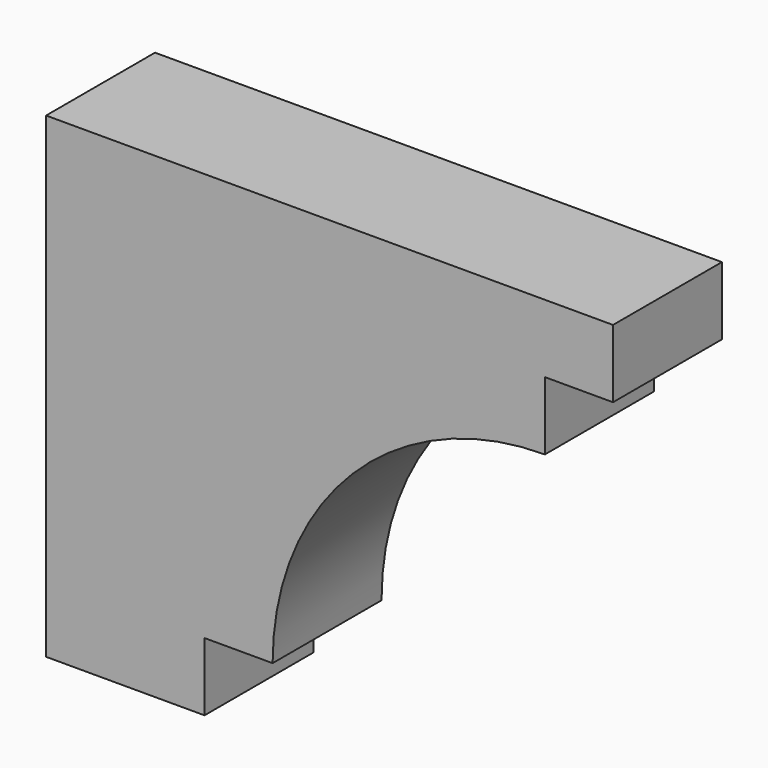
from build123d import *

# Parameters (mm, degrees)
F1_DEPTH = 25.4


with BuildPart() as f1:
    # F0 (on Front) → F1 (new body)
    with BuildSketch(Plane.XZ):
        with BuildLine():
            Line((105.758528, 0), (0, 0))
            Line((0, 0), (0, -88.9))
            Line((0, -88.9), (29.558528, -88.9))
            Line((29.558528, -88.9), (29.558528, -76.2))
            Line((29.558528, -76.2), (42.258528, -76.2))
            ThreePointArc((42.258528, -76.2), (57.137504, -40.278976), (93.058528, -25.4))
            Line((93.058528, -25.4), (93.058528, -12.7))
            Line((93.058528, -12.7), (105.758528, -12.7))
            Line((105.758528, -12.7), (105.758528, 0))
        make_face()
    extrude(amount=F1_DEPTH)


solid = f1.part
